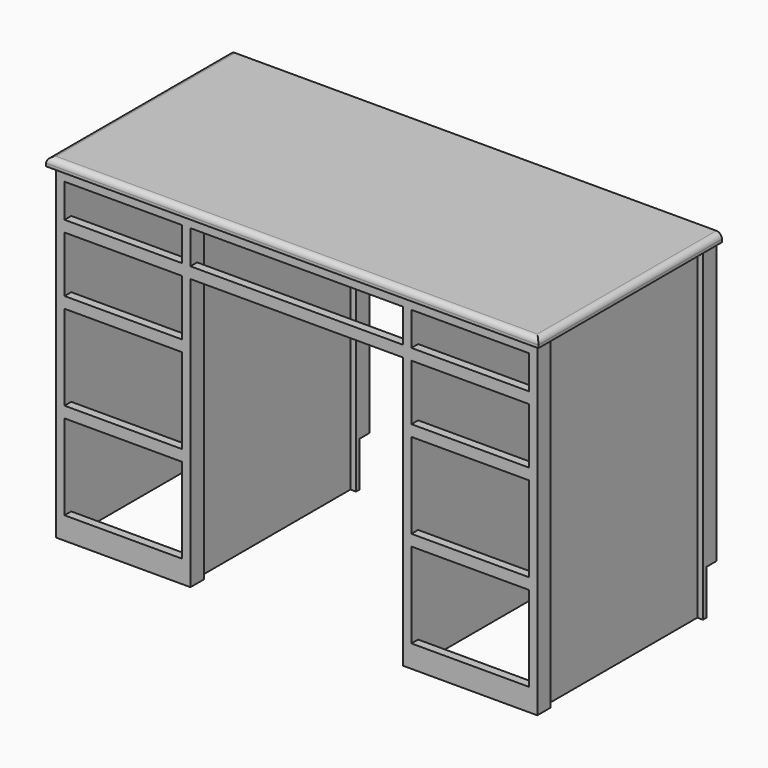
from build123d import *

# Parameters (mm, degrees)
F0_W      = 266.7
F0_H      = 19.05
F0_W_2    = 6.35
F0_H_2    = 431.8
F0_W_3    = 482.6
F1_DEPTH  = 19.05
F2_DEPTH  = 742.95
F3_R      = 12.7
F4_DEPTH  = 127
F5_DEPTH  = 127
F6_DEPTH  = 742.95
F7_W      = 482.6
F7_H      = 76.2
F7_W_2    = 266.7
F7_H_2    = 193.675
F7_H_3    = 127
F8_DEPTH  = 25.4
F9_W      = 28.575
F9_H      = 101.6
F10_DEPTH = 1104.901


with BuildPart() as f1:
    # F0 (on Top) → F1 (new body)
    with BuildSketch(Plane.XY):
        Polygon((532.898358, 244.44298), (266.198358, 244.44298), (266.198358, 225.39298), (266.198358, -206.40702), (266.198358, -225.45702), (532.898358, -225.45702), (532.898358, -206.40702), (532.898358, 225.39298), align=None)
        Polygon((266.198358, 263.49298), (247.148358, 263.49298), (247.148358, 244.44298), (247.148358, 225.39298), (259.848358, 225.39298), (266.198358, 225.39298), (266.198358, 244.44298), align=None)
        with Locations((399.548358, 253.96798)):
            Rectangle(F0_W, F0_H)
        Polygon((551.948358, 263.49298), (532.898358, 263.49298), (532.898358, 244.44298), (532.898358, 225.39298), (539.248358, 225.39298), (551.948358, 225.39298), align=None)
        with Locations((263.023358, 9.49298)):
            Rectangle(F0_W_2, F0_H_2)
        with Locations((536.073358, 9.49298)):
            Rectangle(F0_W_2, F0_H_2)
        with Locations((-387.851642, 253.96798)):
            Rectangle(F0_W, F0_H)
        Polygon((-235.451642, 263.49298), (-254.501642, 263.49298), (-254.501642, 244.44298), (-254.501642, 225.39298), (-248.151642, 225.39298), (-235.451642, 225.39298), (-235.451642, 244.44298), align=None)
        with Locations((-387.851642, -234.98202)):
            Rectangle(F0_W, F0_H)
        with Locations((399.548358, -234.98202)):
            Rectangle(F0_W, F0_H)
        Polygon((-521.201642, -225.45702), (-521.201642, -206.40702), (-527.551642, -206.40702), (-540.251642, -206.40702), (-540.251642, -244.50702), (-521.201642, -244.50702), align=None)
        Polygon((-248.151642, -206.40702), (-254.501642, -206.40702), (-254.501642, -225.45702), (-254.501642, -244.50702), (-235.451642, -244.50702), (-235.451642, -225.45702), (-235.451642, -206.40702), align=None)
        Polygon((266.198358, -206.40702), (259.848358, -206.40702), (247.148358, -206.40702), (247.148358, -225.45702), (247.148358, -244.50702), (266.198358, -244.50702), (266.198358, -225.45702), align=None)
        Polygon((539.248358, -206.40702), (532.898358, -206.40702), (532.898358, -225.45702), (532.898358, -244.50702), (551.948358, -244.50702), (551.948358, -206.40702), align=None)
        Polygon((-521.201642, 244.44298), (-521.201642, 263.49298), (-540.251642, 263.49298), (-540.251642, 225.39298), (-527.551642, 225.39298), (-521.201642, 225.39298), align=None)
        with Locations((-524.376642, 9.49298)):
            Rectangle(F0_W_2, F0_H_2)
        with Locations((399.548358, 253.96798)):
            Rectangle(F0_W, F0_H)
        with Locations((-251.326642, 9.49298)):
            Rectangle(F0_W_2, F0_H_2)
        Polygon((-254.501642, 244.44298), (-521.201642, 244.44298), (-521.201642, 225.39298), (-521.201642, -206.40702), (-521.201642, -225.45702), (-254.501642, -225.45702), (-254.501642, -206.40702), (-254.501642, 225.39298), align=None)
        with Locations((-387.851642, 253.96798)):
            Rectangle(F0_W, F0_H)
        Polygon((-235.451642, 263.49298), (-254.501642, 263.49298), (-254.501642, 244.44298), (-254.501642, 225.39298), (-248.151642, 225.39298), (-235.451642, 225.39298), (-235.451642, 244.44298), align=None)
        Polygon((-521.201642, 244.44298), (-521.201642, 263.49298), (-540.251642, 263.49298), (-540.251642, 225.39298), (-527.551642, 225.39298), (-521.201642, 225.39298), align=None)
        with Locations((399.548358, 253.96798)):
            Rectangle(F0_W, F0_H)
        Polygon((551.948358, 263.49298), (532.898358, 263.49298), (532.898358, 244.44298), (532.898358, 225.39298), (539.248358, 225.39298), (551.948358, 225.39298), align=None)
        Polygon((-540.251642, 225.39298), (-540.251642, 263.49298), (-552.951642, 263.49298), (-552.951642, -257.20702), (564.648358, -257.20702), (564.648358, 263.49298), (551.948358, 263.49298), (551.948358, 225.39298), (539.248358, 225.39298), (539.248358, -206.40702), (551.948358, -206.40702), (551.948358, -244.50702), (532.898358, -244.50702), (266.198358, -244.50702), (247.148358, -244.50702), (-235.451642, -244.50702), (-254.501642, -244.50702), (-521.201642, -244.50702), (-540.251642, -244.50702), (-540.251642, -206.40702), (-527.551642, -206.40702), (-527.551642, 225.39298), align=None)
        Polygon((266.198358, 263.49298), (247.148358, 263.49298), (247.148358, 244.44298), (247.148358, 225.39298), (259.848358, 225.39298), (266.198358, 225.39298), (266.198358, 244.44298), align=None)
        with Locations((5.848358, 253.96798)):
            Rectangle(F0_W_3, F0_H)
        Polygon((247.148358, 244.44298), (-235.451642, 244.44298), (-235.451642, 225.39298), (-248.151642, 225.39298), (-248.151642, -206.40702), (-235.451642, -206.40702), (-235.451642, -225.45702), (247.148358, -225.45702), (247.148358, -206.40702), (259.848358, -206.40702), (259.848358, 225.39298), (247.148358, 225.39298), align=None)
        with Locations((5.848358, -234.98202)):
            Rectangle(F0_W_3, F0_H)
    extrude(amount=F1_DEPTH)

    # F0 (on Top) → F2 (join)
    with BuildSketch(Plane.XY):
        Polygon((-248.151642, -206.40702), (-254.501642, -206.40702), (-254.501642, -225.45702), (-254.501642, -244.50702), (-235.451642, -244.50702), (-235.451642, -225.45702), (-235.451642, -206.40702), align=None)
        Polygon((-521.201642, -225.45702), (-521.201642, -206.40702), (-527.551642, -206.40702), (-540.251642, -206.40702), (-540.251642, -244.50702), (-521.201642, -244.50702), align=None)
        with Locations((-524.376642, 9.49298)):
            Rectangle(F0_W_2, F0_H_2)
        with Locations((-251.326642, 9.49298)):
            Rectangle(F0_W_2, F0_H_2)
        Polygon((-521.201642, 244.44298), (-521.201642, 263.49298), (-540.251642, 263.49298), (-540.251642, 225.39298), (-527.551642, 225.39298), (-521.201642, 225.39298), align=None)
        Polygon((-235.451642, 263.49298), (-254.501642, 263.49298), (-254.501642, 244.44298), (-254.501642, 225.39298), (-248.151642, 225.39298), (-235.451642, 225.39298), (-235.451642, 244.44298), align=None)
        Polygon((266.198358, 263.49298), (247.148358, 263.49298), (247.148358, 244.44298), (247.148358, 225.39298), (259.848358, 225.39298), (266.198358, 225.39298), (266.198358, 244.44298), align=None)
        Polygon((551.948358, 263.49298), (532.898358, 263.49298), (532.898358, 244.44298), (532.898358, 225.39298), (539.248358, 225.39298), (551.948358, 225.39298), align=None)
        Polygon((266.198358, -206.40702), (259.848358, -206.40702), (247.148358, -206.40702), (247.148358, -225.45702), (247.148358, -244.50702), (266.198358, -244.50702), (266.198358, -225.45702), align=None)
        Polygon((539.248358, -206.40702), (532.898358, -206.40702), (532.898358, -225.45702), (532.898358, -244.50702), (551.948358, -244.50702), (551.948358, -206.40702), align=None)
        with Locations((536.073358, 9.49298)):
            Rectangle(F0_W_2, F0_H_2)
        with Locations((263.023358, 9.49298)):
            Rectangle(F0_W_2, F0_H_2)
    extrude(amount=-F2_DEPTH)

    # F3
    f3_edges = [f1.edges().sort_by_distance(p)[0] for p in [
        (-552.951642, 3.14298, 19.05),
        (5.848358, -257.20702, 19.05),
        (564.648358, 3.14298, 19.05),
    ]]
    fillet(f3_edges, radius=F3_R)

    # F0 (on Top) → F4 (join)
    with BuildSketch(Plane.XY):
        with Locations((5.848358, 253.96798)):
            Rectangle(F0_W_3, F0_H)
    extrude(amount=-F4_DEPTH)

    # F0 (on Top) → F5 (join)
    with BuildSketch(Plane.XY):
        with Locations((5.848358, -234.98202)):
            Rectangle(F0_W_3, F0_H)
    extrude(amount=-F5_DEPTH)

    # F0 (on Top) → F6 (join, through all)
    with BuildSketch(Plane.XY):
        with Locations((-387.851642, -234.98202)):
            Rectangle(F0_W, F0_H)
        with Locations((399.548358, -234.98202)):
            Rectangle(F0_W, F0_H)
    extrude(amount=-F6_DEPTH)

    # F7 (on face) → F8 (cut)
    with BuildSketch(Plane.XZ.offset(244.50702)):
        with Locations((5.848358, -63.5)):
            Rectangle(F7_W, F7_H)
        with Locations((-387.851642, -376.2375)):
            Rectangle(F7_W_2, F7_H_2)
        with Locations((-387.851642, -190.5)):
            Rectangle(F7_W_2, F7_H_3)
        with Locations((-387.851642, -63.5)):
            Rectangle(F7_W_2, F7_H)
        with Locations((-387.851642, -595.3125)):
            Rectangle(F7_W_2, F7_H_2)
        with Locations((399.548358, -595.3125)):
            Rectangle(F7_W_2, F7_H_2)
        with Locations((399.548358, -376.2375)):
            Rectangle(F7_W_2, F7_H_2)
        with Locations((399.548358, -190.5)):
            Rectangle(F7_W_2, F7_H_3)
        with Locations((399.548358, -63.5)):
            Rectangle(F7_W_2, F7_H)
    extrude(amount=-F8_DEPTH, mode=Mode.SUBTRACT)

    # F9 (on face) → F10 (cut, through all)
    with BuildSketch(Plane.YZ.offset(551.948358)):
        with Locations((249.20548, -692.15)):
            Rectangle(F9_W, F9_H)
    extrude(amount=-F10_DEPTH, mode=Mode.SUBTRACT)


solid = f1.part
